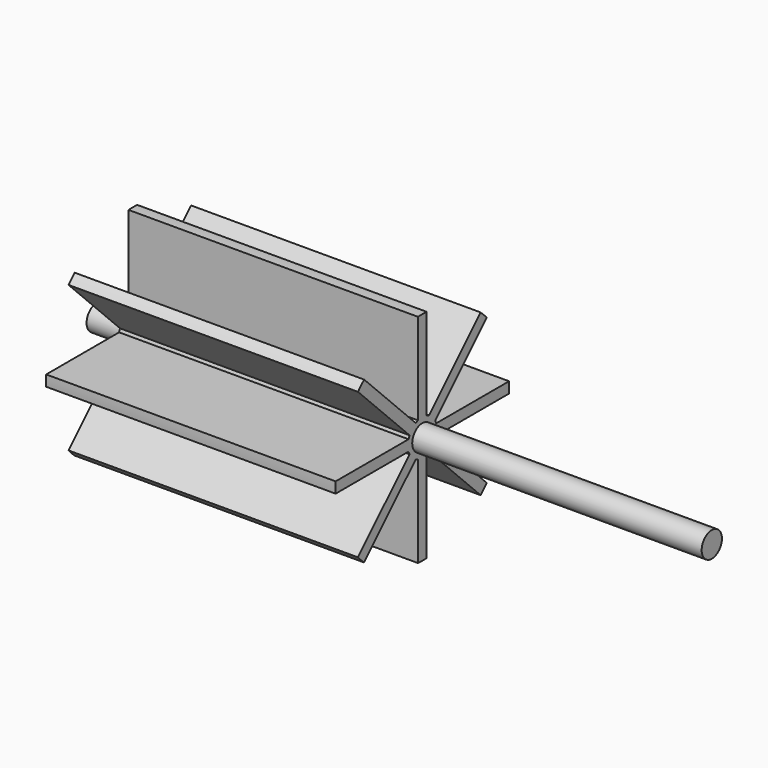
from build123d import *

# Parameters (mm, degrees)
F0_W          = 40
F0_H          = 15
F3_DEPTH      = 40.001
F4_R          = 1.75
F4_R_2        = 0.75
F6_DEPTH      = 5
F6_DEPTH_BACK = 80


with BuildPart() as f1:
    # F0 (on Top) → F1 (revolve)
    with BuildSketch(Plane.XY):
        with Locations((0, 7.5)):
            Rectangle(F0_W, F0_H)
    revolve(axis=Axis((0, 0, 0), (1, 0, 0)))

    # F2 (on face) → F3 (cut, through all)
    with BuildSketch(Plane.YZ.offset(20)):
        with BuildLine():
            ThreePointArc((1.651475323, -0.578903496), (1.7251930059, -0.2936138491), (1.75, 0))
            ThreePointArc((1.75, 0), (1.7236043316, 0.3028004429), (1.6452135906, 0.5964664628))
            ThreePointArc((1.6452135906, 0.5964664628), (1.6150017407, 0.6739950872), (1.5811388301, 0.75))
            ThreePointArc((1.5811388301, 0.75), (1.2374368671, 1.2374368671), (0.75, 1.5811388301))
            ThreePointArc((0.75, 1.5811388301), (0.6653812907, 1.618569658), (0.5789024703, 1.6514756825))
            ThreePointArc((0.5789024703, 1.6514756825), (0, 1.75), (-0.5789024703, 1.6514756825))
            ThreePointArc((-0.5789024703, 1.6514756825), (-0.6653812907, 1.618569658), (-0.75, 1.5811388301))
            ThreePointArc((-0.75, 1.5811388301), (-1.2374368671, 1.2374368671), (-1.5811388301, 0.75))
            ThreePointArc((-1.5811388301, 0.75), (-1.6150017407, 0.6739950872), (-1.6452135906, 0.5964664628))
            ThreePointArc((-1.6452135906, 0.5964664628), (-1.7499751665, 0.0093229166), (-1.651475323, -0.578903496))
            ThreePointArc((-1.651475323, -0.578903496), (-1.6185694514, -0.6653817934), (-1.5811388301, -0.75))
            ThreePointArc((-1.5811388301, -0.75), (-1.2374368671, -1.2374368671), (-0.75, -1.5811388301))
            ThreePointArc((-0.75, -1.5811388301), (-0.6739945857, -1.61500195), (-0.596465441, -1.6452139611))
            ThreePointArc((-0.596465441, -1.6452139611), (0, -1.75), (0.596465441, -1.6452139611))
            ThreePointArc((0.596465441, -1.6452139611), (0.6739945857, -1.61500195), (0.75, -1.5811388301))
            ThreePointArc((0.75, -1.5811388301), (1.2374368671, -1.2374368671), (1.5811388301, -0.75))
            ThreePointArc((1.5811388301, -0.75), (1.6185694514, -0.6653817934), (1.651475323, -0.578903496))
        make_face()
        with BuildLine():
            ThreePointArc((2.2125773299, 1.1638305544), (2.3080064679, 0.9607841298), (2.3848480035, 0.75))
            Line((2.3848480035, 0.75), (14.9812382666, 0.75))
            ThreePointArc((14.9812382666, 0.75), (13.8565778233, 5.7441492866), (11.118002457, 10.0692612126))
            Line((11.118002457, 10.0692612126), (2.2125773299, 1.1638305544))
        make_face()
        with BuildLine():
            ThreePointArc((2.3848480035, -0.75), (2.3113855708, -0.9526262348), (2.2207433968, -1.1481719234))
            Line((2.2207433968, -1.1481719234), (11.1293184453, -10.0567525048))
            ThreePointArc((11.1293184453, -10.0567525048), (13.8598053196, -5.7363574246), (14.9812382666, -0.75))
            Line((14.9812382666, -0.75), (2.3848480035, -0.75))
        make_face()
        with BuildLine():
            Line((10.0692543074, -11.1180087108), (1.1638291802, -2.2125780527))
            ThreePointArc((1.1638291802, -2.2125780527), (0.960783413, -2.3080067663), (0.75, -2.3848480035))
            Line((0.75, -2.3848480035), (0.75, -14.9812382666))
            ThreePointArc((0.75, -14.9812382666), (5.7441449835, -13.8565796071), (10.0692543074, -11.1180087108))
        make_face()
        with BuildLine():
            Line((-0.75, -14.9812382666), (-0.75, -2.3848480035))
            ThreePointArc((-0.75, -2.3848480035), (-0.960783413, -2.3080067663), (-1.1638291802, -2.2125780527))
            Line((-1.1638291802, -2.2125780527), (-10.0692543074, -11.1180087108))
            ThreePointArc((-10.0692543074, -11.1180087108), (-5.7441449835, -13.8565796071), (-0.75, -14.9812382666))
        make_face()
        with BuildLine():
            Line((-11.1293184453, -10.0567525048), (-2.2207433968, -1.1481719234))
            ThreePointArc((-2.2207433968, -1.1481719234), (-2.3113855708, -0.9526262348), (-2.3848480035, -0.75))
            Line((-2.3848480035, -0.75), (-14.9812382666, -0.75))
            ThreePointArc((-14.9812382666, -0.75), (-13.8598053196, -5.7363574246), (-11.1293184453, -10.0567525048))
        make_face()
        with BuildLine():
            ThreePointArc((-2.3848480035, 0.75), (-2.3080064679, 0.9607841298), (-2.2125773299, 1.1638305544))
            Line((-2.2125773299, 1.1638305544), (-11.118002457, 10.0692612126))
            ThreePointArc((-11.118002457, 10.0692612126), (-13.8565778233, 5.7441492866), (-14.9812382666, 0.75))
            Line((-14.9812382666, 0.75), (-2.3848480035, 0.75))
        make_face()
        with BuildLine():
            ThreePointArc((-1.1481705441, 2.2207441099), (-0.952625517, 2.3113858666), (-0.75, 2.3848480035))
            Line((-0.75, 2.3848480035), (-0.75, 14.9812382666))
            ThreePointArc((-0.75, 14.9812382666), (-5.7363531205, 13.859807101), (-10.0567455926, 11.1293246914))
            Line((-10.0567455926, 11.1293246914), (-1.1481705441, 2.2207441099))
        make_face()
        with BuildLine():
            ThreePointArc((0.75, 2.3848480035), (0.952625517, 2.3113858666), (1.1481705441, 2.2207441099))
            Line((1.1481705441, 2.2207441099), (10.0567455926, 11.1293246914))
            ThreePointArc((10.0567455926, 11.1293246914), (5.7363531205, 13.859807101), (0.75, 14.9812382666))
            Line((0.75, 14.9812382666), (0.75, 2.3848480035))
        make_face()
    extrude(amount=-F3_DEPTH, mode=Mode.SUBTRACT)

    # F4 (on face) → F6 (join, two sides)
    with BuildSketch(Plane(origin=(-20, 0, 0), x_dir=(0, -1, 0), z_dir=(-1, 0, 0))) as f6_sk:
        Circle(F4_R)
        Circle(F4_R_2, mode=Mode.SUBTRACT)
        Circle(F4_R_2)
    extrude(amount=F6_DEPTH)
    extrude(f6_sk.sketch, amount=-F6_DEPTH_BACK)


solid = f1.part
